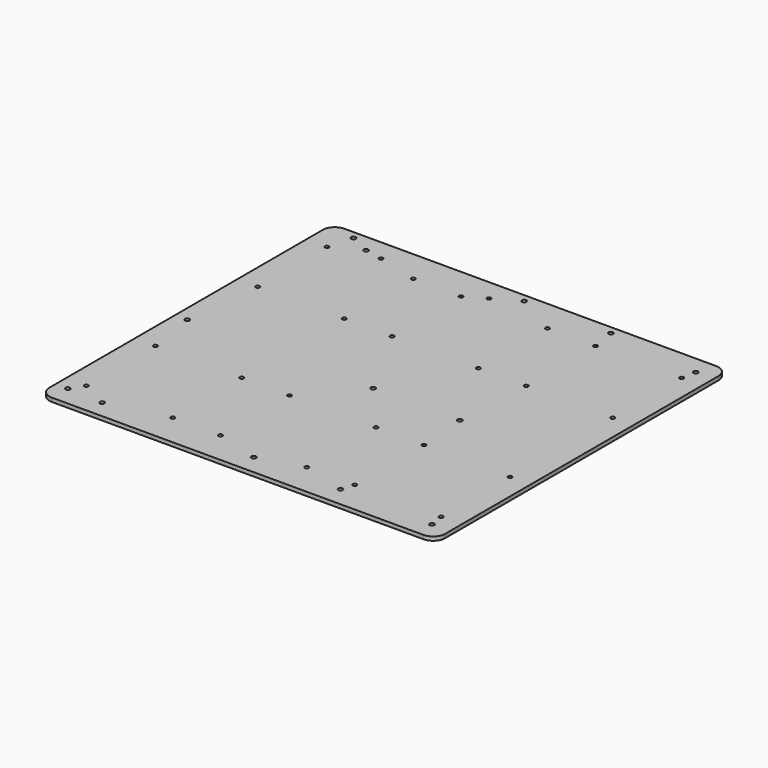
from build123d import *

# Parameters (mm, degrees)
F1_DEPTH = 3.2
F3_D     = 3.7973
F5_D     = 3.7973
F7_D     = 3.3
F9_D     = 3.2639


with BuildPart() as f1:
    # F0 (on Top) → F1 (new body)
    with BuildSketch(Plane.XY):
        with BuildLine():
            ThreePointArc((165, 137.5), (162.0710678119, 144.5710678119), (155, 147.5))
            Line((155, 147.5), (-155, 147.5))
            ThreePointArc((-155, 147.5), (-162.0710678119, 144.5710678119), (-165, 137.5))
            Line((-165, 137.5), (-165, -147.5))
            ThreePointArc((-165, -147.5), (-162.0710678119, -154.5710678119), (-155, -157.5))
            Line((-155, -157.5), (155, -157.5))
            ThreePointArc((155, -157.5), (162.0710678119, -154.5710678119), (165, -147.5))
            Line((165, -147.5), (165, 137.5))
        make_face()
    extrude(amount=F1_DEPTH)

    # F3 (through all)
    with Locations(Plane.XY.offset(3.2)):
        with Locations((-125, 132.5), (150, 132.5), (150, -142.5), (-125, -142.5)):
            Hole(F3_D / 2)

    # F5 (through all)
    with Locations(Plane.XY.offset(3.2)):
        with Locations((-142.14, 140.95), (0.1, 140.95), (72.49, 140.95), (-154.84, -16.53), (0.1, -16.53), (72.49, -16.53), (72.49, -140.99), (0.1, -140.99), (-154.84, -140.99)):
            Hole(F5_D / 2)

    # F7 (through all)
    with Locations(Plane.XY.offset(3.2)):
        with Locations((-147.9, 120.4), (-75.9, 120.4), (-147.9, 48.4), (-75.9, 48.4), (-36, 120.4), (36, 120.4), (-36, 48.4), (36, 48.4), (75.9, 120.4), (147.9, 120.4), (75.9, 48.4), (147.9, 48.4), (-147.9, -130.4), (-147.9, -58.4), (-75.9, -58.4), (-75.9, -130.4), (-36, -58.4), (36, -58.4), (-36, -130.4), (36, -130.4), (75.9, -58.4), (147.9, -58.4), (75.9, -130.4), (147.9, -130.4)):
            Hole(F7_D / 2)

    # F9 (through all)
    with Locations(Plane.XY.offset(3.2)):
        with Locations((-110, 129.5), (-20, 129.5)):
            Hole(F9_D / 2)


solid = f1.part
